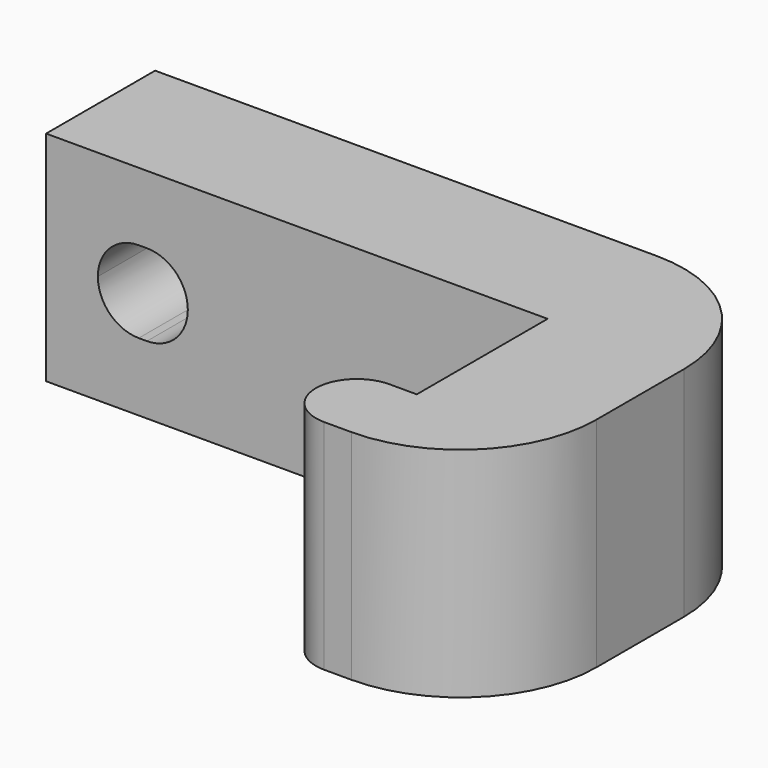
from build123d import *

# Parameters (mm, degrees)
F1_DEPTH = 8
F3_DEPTH = 25
F4_R     = 5
F5_DEPTH = 0.4


with BuildPart() as f1:
    # F0 (on Top) → F1 (new body)
    with BuildSketch(Plane.XY):
        with BuildLine():
            Line((-1, 0), (0, 0))
            Line((0, 0), (5, 0))
            Line((5, 0), (5, 14))
            Line((5, 14), (-18, 14))
            Line((-18, 14), (-18, 9))
            Line((-18, 9), (0, 9))
            Line((0, 9), (0, 3))
            Line((0, 3), (-1, 3))
            ThreePointArc((-1, 3), (-2.5, 1.5), (-1, 0))
        make_face()
    extrude(amount=F1_DEPTH)

    # F2 (on face) → F3 (cut)
    with BuildSketch(Plane(origin=(0, 14, 0), x_dir=(-1, 0, 0), z_dir=(0, 1, 0))):
        with BuildLine():
            ThreePointArc((15, 2.5), (16.0606601718, 2.9393398282), (16.5, 4))
            ThreePointArc((16.5, 4), (16.0606601718, 5.0606601718), (15, 5.5))
            Line((15, 5.5), (15, 5.4696938457))
            ThreePointArc((15, 5.4696938457), (15.8618950039, 4.9486832981), (16.2, 4))
            ThreePointArc((16.2, 4), (15.8618950039, 3.0513167019), (15, 2.5303061543))
            Line((15, 2.5303061543), (15, 2.5))
        make_face()
        with BuildLine():
            ThreePointArc((15, 5.4696938457), (14.9252882939, 5.4829852274), (14.85, 5.4924811557))
            ThreePointArc((14.85, 5.4924811557), (13.5, 4), (14.85, 2.5075188443))
            ThreePointArc((14.85, 2.5075188443), (14.9252882939, 2.5170147726), (15, 2.5303061543))
            Line((15, 2.5303061543), (15, 5.4696938457))
        make_face()
        with BuildLine():
            ThreePointArc((14.85, 2.5075188443), (13.5, 4), (14.85, 5.4924811557))
            ThreePointArc((14.85, 5.4924811557), (14.7750941626, 5.4981191097), (14.7, 5.5))
            ThreePointArc((14.7, 5.5), (13.2, 4), (14.7, 2.5))
            ThreePointArc((14.7, 2.5), (14.7750941626, 2.5018808903), (14.85, 2.5075188443))
        make_face()
        with BuildLine():
            ThreePointArc((16.2, 4), (15.8618950039, 4.9486832981), (15, 5.4696938457))
            Line((15, 5.4696938457), (15, 2.5303061543))
            ThreePointArc((15, 2.5303061543), (15.8618950039, 3.0513167019), (16.2, 4))
        make_face()
        with BuildLine():
            Line((15, 5.4696938457), (15, 5.5))
            ThreePointArc((15, 5.5), (14.9249058374, 5.4981191097), (14.85, 5.4924811557))
            ThreePointArc((14.85, 5.4924811557), (14.9252882939, 5.4829852274), (15, 5.4696938457))
        make_face()
        with BuildLine():
            ThreePointArc((14.85, 2.5075188443), (14.9249058374, 2.5018808903), (15, 2.5))
            Line((15, 2.5), (15, 2.5303061543))
            ThreePointArc((15, 2.5303061543), (14.9252882939, 2.5170147726), (14.85, 2.5075188443))
        make_face()
        with BuildLine():
            ThreePointArc((14.85, 5.4924811557), (14.9249058374, 5.4981191097), (15, 5.5))
            Line((15, 5.5), (14.7, 5.5))
            ThreePointArc((14.7, 5.5), (14.7750941626, 5.4981191097), (14.85, 5.4924811557))
        make_face()
        with BuildLine():
            Line((14.7, 2.5), (15, 2.5))
            ThreePointArc((15, 2.5), (14.9249058374, 2.5018808903), (14.85, 2.5075188443))
            ThreePointArc((14.85, 2.5075188443), (14.7750941626, 2.5018808903), (14.7, 2.5))
        make_face()
    extrude(amount=-F3_DEPTH, mode=Mode.SUBTRACT)

    # F4
    f4_edges = [f1.edges().sort_by_distance(p)[0] for p in [
        (5, 14, 4),
        (5, 0, 4),
    ]]
    fillet(f4_edges, radius=F4_R)

    # F5 (add): a face of the model
    f5_faces = [f1.faces().sort_by_distance(p)[0] for p in [
        (-18, 11.5, 4),
    ]]
    extrude(f5_faces, amount=F5_DEPTH)


solid = f1.part
